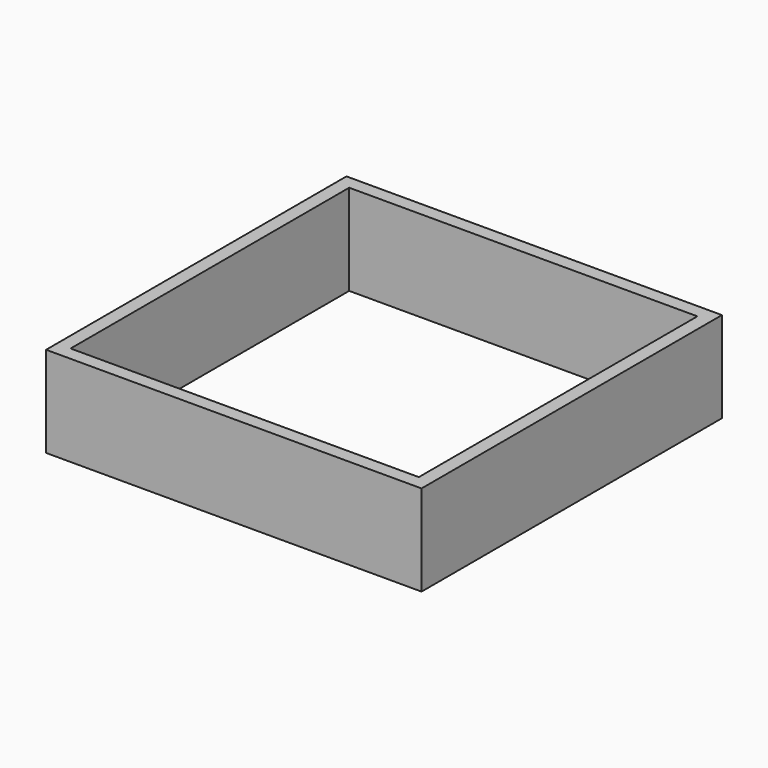
from build123d import *

# Parameters (mm, degrees)
F1_W     = 104.9782
F1_H     = 104.9782
F2_DEPTH = 25.4
F0_W     = 97.3582
F0_H     = 97.3582
F3_DEPTH = 25.4


with BuildPart() as f2:
    # F1 (on Top) → F2 (new body)
    with BuildSketch(Plane.XY):
        Rectangle(F1_W, F1_H)
    extrude(amount=F2_DEPTH)

    # F0 (on Top) → F3 (cut)
    with BuildSketch(Plane.XY):
        Rectangle(F0_W, F0_H)
    extrude(amount=F3_DEPTH, mode=Mode.SUBTRACT)


solid = f2.part
